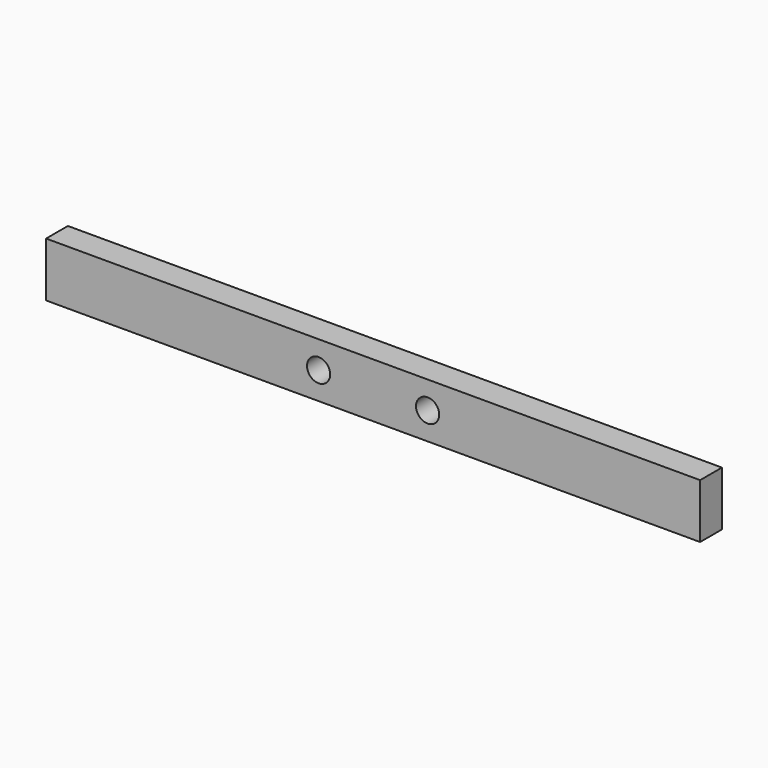
from build123d import *

# Parameters (mm, degrees)
SKETCH_W  = 480
SKETCH_H  = 40
SKETCH_R  = 8.5
PAD_DEPTH = 20


with BuildPart() as part:
    # Sketch → Pad (new body)
    with BuildSketch(Plane.XZ):
        Rectangle(SKETCH_W, SKETCH_H)
        with Locations((-40, 0)):
            Circle(SKETCH_R, mode=Mode.SUBTRACT)
        with Locations((40, 0)):
            Circle(SKETCH_R, mode=Mode.SUBTRACT)
    extrude(amount=PAD_DEPTH)


solid = part.part
